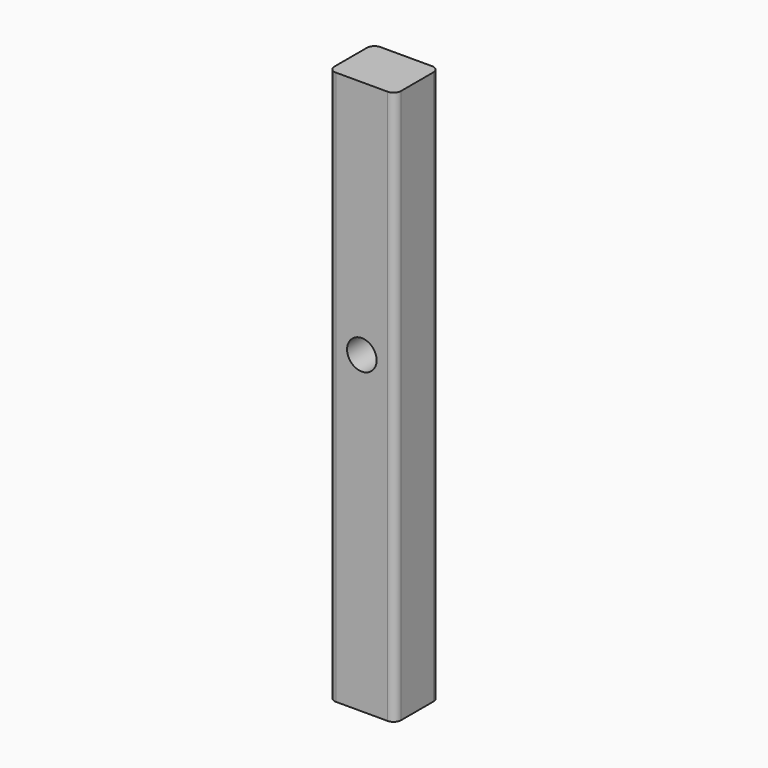
from build123d import *

# Parameters (mm, degrees)
F0_W     = 18
F0_H     = 150
F1_DEPTH = 7.5
F2_R     = 2
F3_R     = 4
F4_DEPTH = 25.4


with BuildPart() as f1:
    # F0 (on Front) → F1 (new body, symmetric)
    with BuildSketch(Plane.XZ):
        Rectangle(F0_W, F0_H)
    extrude(amount=F1_DEPTH, both=True)

    # F2
    f2_edges = [f1.edges().sort_by_distance(p)[0] for p in [
        (-9, -7.5, 0),
        (9, -7.5, 0),
        (9, 7.5, 0),
        (-9, 7.5, 0),
    ]]
    fillet(f2_edges, radius=F2_R)

    # F3 (on face) → F4 (cut)
    with BuildSketch(Plane.XZ.offset(7.5)):
        with Locations((0, 10)):
            Circle(F3_R)
    extrude(amount=-F4_DEPTH, mode=Mode.SUBTRACT)


solid = f1.part
